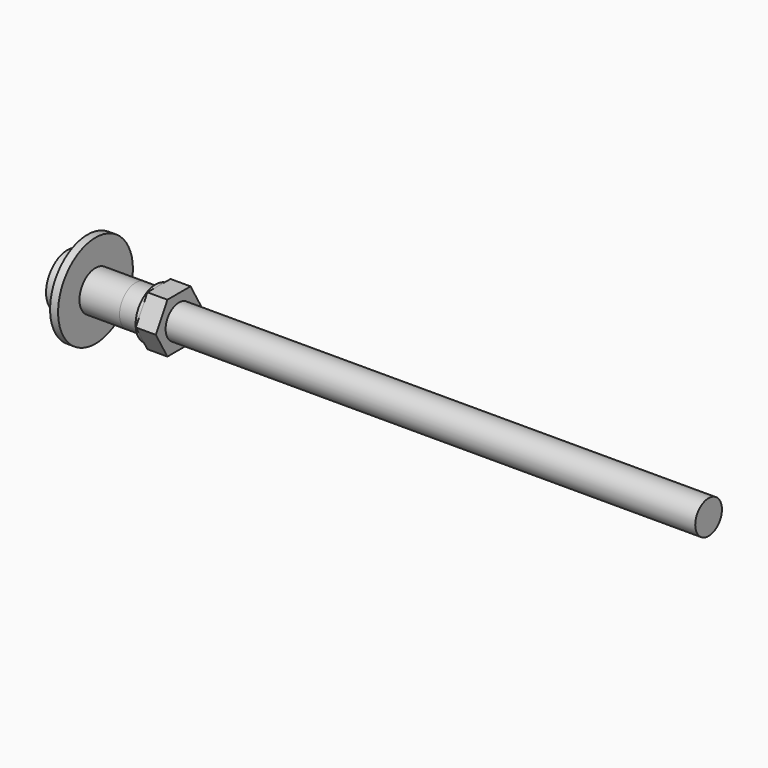
from build123d import *

# Parameters (mm, degrees)
F0_R           = 9.525
F1_DEPTH       = 19.05
F2_R           = 9.525
F3_DEPTH       = 9.525
F5_R           = 11.90625
F6_DEPTH       = 1.5875
F8_DEPTH       = 9.525
F9_R           = 7.9375
F10_DEPTH      = 19.051
F10_DEPTH_BACK = 20.6385
F11_R          = 22.225
F12_DEPTH      = 3.81
F13_R          = 8.3312
F14_DEPTH      = 3.81
F15_R          = 12.7
F16_DEPTH      = 9.525
F17_R          = 7.9375
F18_DEPTH      = 53.0235
F19_R          = 7.9375
F20_DEPTH      = 304.8


with BuildPart() as f1:
    # F0 (on Right) → F1 (new body)
    with BuildSketch(Plane.YZ):
        with Locations((33.8600948453, 47.481123358)):
            Circle(F0_R)
    extrude(amount=F1_DEPTH)


with BuildPart() as f3:
    # F2 (on face) → F3 (new body)
    with BuildSketch(Plane.YZ.offset(19.05)):
        with Locations((33.8600948453, 47.481123358)):
            Circle(F2_R)
    extrude(amount=F3_DEPTH)

    # F5 (on offset) → F6 (join)
    with BuildSketch(Plane.YZ.offset(28.575)):
        with Locations((33.8600948453, 47.481123358)):
            Circle(F5_R)
    extrude(amount=F6_DEPTH)


with BuildPart() as f8:
    # F7 (on face) → F8 (new body)
    with BuildSketch(Plane.YZ.offset(30.1625)):
        Polygon((40.7341714878, 59.387373358), (33.8600948453, 59.387373358), (26.9860182028, 59.387373358), (23.5489798815, 53.434248358), (20.1119415602, 47.481123358), (23.5489798815, 41.527998358), (26.9860182028, 35.574873358), (33.8600948453, 35.574873358), (40.7341714878, 35.574873358), (44.1712098091, 41.527998358), (47.6082481304, 47.481123358), (44.1712098091, 53.434248358), align=None)
    extrude(amount=F8_DEPTH)


with BuildPart() as f10_tool:
    # F9 (on face) → F10 (new body, two sides)
    with BuildSketch(Plane.YZ.offset(19.05)) as f10_sk:
        with Locations((33.8600948453, 47.481123358)):
            Circle(F9_R)
    extrude(amount=-F10_DEPTH)
    extrude(f10_sk.sketch, amount=F10_DEPTH_BACK)


with BuildPart() as f1_1:
    add(f1.part)

    # F10: cut by f10_tool
    add(f10_tool.part, mode=Mode.SUBTRACT)


with BuildPart() as f3_1:
    add(f3.part)

    # F10: cut by f10_tool
    add(f10_tool.part, mode=Mode.SUBTRACT)


with BuildPart() as f8_1:
    add(f8.part)

    # F10: cut by f10_tool
    add(f10_tool.part, mode=Mode.SUBTRACT)


with BuildPart() as f12:
    # F11 (on Right) → F12 (new body)
    with BuildSketch(Plane.YZ):
        with Locations((33.8600948453, 47.481123358)):
            Circle(F11_R)
    extrude(amount=-F12_DEPTH)

    # F13 (on face) → F14 (cut, through all)
    with BuildSketch(Plane(origin=(-3.81, 0, 0), x_dir=(0, -1, 0), z_dir=(-1, 0, 0))):
        with Locations((-33.8600948453, 47.481123358)):
            Circle(F13_R)
    extrude(amount=-F14_DEPTH, mode=Mode.SUBTRACT)


with BuildPart() as f16:
    # F15 (on face) → F16 (new body)
    with BuildSketch(Plane(origin=(-3.81, 0, 0), x_dir=(0, -1, 0), z_dir=(-1, 0, 0))):
        with Locations((-33.8600948453, 47.481123358)):
            Circle(F15_R)
    extrude(amount=F16_DEPTH)

    # F17 (on face) → F18 (cut, through all)
    with BuildSketch(Plane(origin=(-13.335, 0, 0), x_dir=(0, -1, 0), z_dir=(-1, 0, 0))):
        with Locations((-33.8600948453, 47.481123358)):
            Circle(F17_R)
    extrude(amount=-F18_DEPTH, mode=Mode.SUBTRACT)


with BuildPart() as f20:
    # F19 (on face) → F20 (new body)
    with BuildSketch(Plane(origin=(-13.335, 0, 0), x_dir=(0, -1, 0), z_dir=(-1, 0, 0))):
        with Locations((-33.8600948453, 47.481123358)):
            Circle(F19_R)
    extrude(amount=-F20_DEPTH)


solid = Compound([f1_1.part, f3_1.part, f8_1.part, f12.part, f16.part, f20.part])
